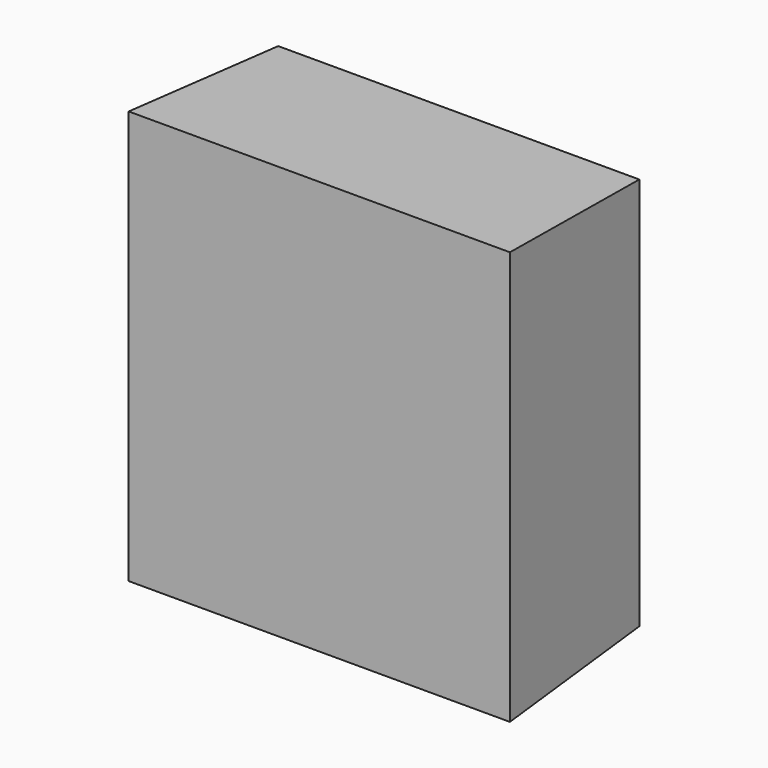
from build123d import *

# Parameters (mm, degrees)
F0_W     = 52.6171401143
F0_H     = 57.3113337159
F1_DEPTH = 25.4
F1_TAPER = -3.3


with BuildPart() as f1:
    # F0 (on Front) → F1 (new body)
    with BuildSketch(Plane.XZ):
        with Locations((26.3085700572, 28.655666858)):
            Rectangle(F0_W, F0_H)
    extrude(amount=F1_DEPTH, taper=F1_TAPER)


solid = f1.part
